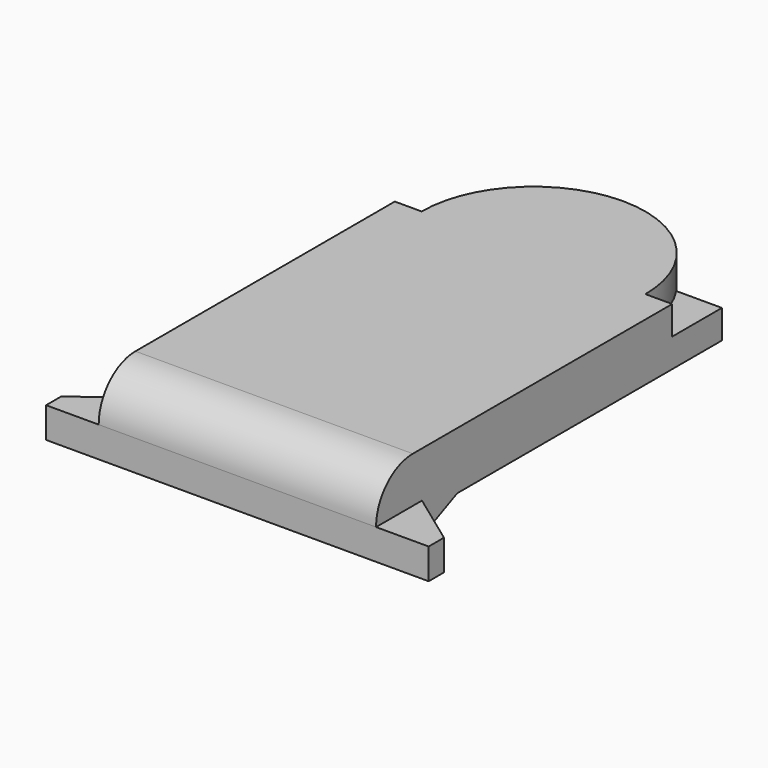
from build123d import *

# Parameters (mm, degrees)
PAD_DEPTH            = 4
POCKET_DEPTH         = 1.5
POCKET004_DEPTH      = 2.4
POCKET005_DEPTH      = 10.001
POCKET005_DEPTH_BACK = -10.001
POCKET006_DEPTH      = 10.001
POCKET006_DEPTH_BACK = -10.001
POCKET007_DEPTH      = 1
POCKET008_DEPTH      = 2


with BuildPart() as part:
    # Sketch → Pad (new body)
    with BuildSketch(Plane.XY):
        with BuildLine():
            Line((-10, 0), (10, 0))
            Line((10, 0), (10, 1))
            Line((10, 1), (7.25, 3))
            Line((7.25, 3), (7.25, 22.6))
            Line((7.25, 22.6), (4.864155, 22.6))
            ThreePointArc((4.864155, 22.6), (0, 25.2), (-4.864155, 22.6))
            Line((-7.25, 22.6), (-4.864155, 22.6))
            Line((-7.25, 3), (-7.25, 22.6))
            Line((-10, 1), (-7.25, 3))
            Line((-10, 0), (-10, 1))
        make_face()
    extrude(amount=PAD_DEPTH)

    # Sketch001 (on Face12 of Pad) → Pocket (cut)
    with BuildSketch(Plane.XY.offset(4)):
        with BuildLine():
            ThreePointArc((-4.864155, 22.6), (-5.598116, 21.048116), (-5.85, 19.35))
            Line((-5.85, 19.35), (-7.25, 19.35))
            Line((-7.25, 19.35), (-7.25, 22.6))
            Line((-4.864155, 22.6), (-7.25, 22.6))
        make_face()
        with BuildLine():
            ThreePointArc((5.85, 19.35), (5.598116, 21.048116), (4.864155, 22.6))
            Line((7.25, 22.6), (4.864155, 22.6))
            Line((7.25, 19.35), (7.25, 22.6))
            Line((5.85, 19.35), (7.25, 19.35))
        make_face()
    extrude(amount=-POCKET_DEPTH, mode=Mode.SUBTRACT)

    # Sketch005 (on Face12 of Pad) → Pocket004 (cut)
    with BuildSketch(Plane.XY.offset(4)):
        Polygon((-7.25, 3), (-10, 1), (-10, 0), (-7.25, 0), align=None)
        Polygon((7.25, 3), (10, 1), (10, 0), (7.25, 0), align=None)
    extrude(amount=-POCKET004_DEPTH, mode=Mode.SUBTRACT)

    # Sketch006 → Pocket005 (cut, two sides)
    with BuildSketch(Plane.YZ) as pocket005_sk:
        with BuildLine():
            ThreePointArc((2.4, 4), (0.702944, 3.297056), (0, 1.6))
            Line((0, 1.6), (0, 4))
            Line((2.4, 4), (0, 4))
        make_face()
    extrude(amount=-POCKET005_DEPTH, mode=Mode.SUBTRACT)
    extrude(pocket005_sk.sketch, amount=-POCKET005_DEPTH_BACK, mode=Mode.SUBTRACT)

    # Sketch007 → Pocket006 (cut, two sides)
    with BuildSketch(Plane.YZ) as pocket006_sk:
        Polygon((3.1, 0), (5.3, 1), (25.2, 1), (25.2, 0), align=None)
    extrude(amount=-POCKET006_DEPTH, mode=Mode.SUBTRACT)
    extrude(pocket006_sk.sketch, amount=-POCKET006_DEPTH_BACK, mode=Mode.SUBTRACT)

    # Sketch008 → Pocket007 (cut)
    with BuildSketch(Plane.XY):
        with BuildLine():
            Line((-5.85, 5.3), (-5.85, 1.2))
            Line((-5.85, 1.2), (-2.774887, 1.2))
            ThreePointArc((-2.774887, 1.2), (0, 0.5), (2.774887, 1.2))
            Line((5.85, 1.2), (2.774887, 1.2))
            Line((5.85, 5.3), (5.85, 1.2))
            Line((-5.85, 5.3), (5.85, 5.3))
        make_face()
    extrude(amount=POCKET007_DEPTH, mode=Mode.SUBTRACT)

    # Sketch009 → Pocket008 (cut, symmetric)
    with BuildSketch(Plane.YZ):
        Polygon((8.85, 1), (11.85, 2.5), (13.85, 2.5), (16.85, 1), (15.85, 1), (13.35, 1.5), (12.35, 1.5), (9.85, 1), align=None)
    extrude(amount=POCKET008_DEPTH, both=True, mode=Mode.SUBTRACT)


solid = part.part
